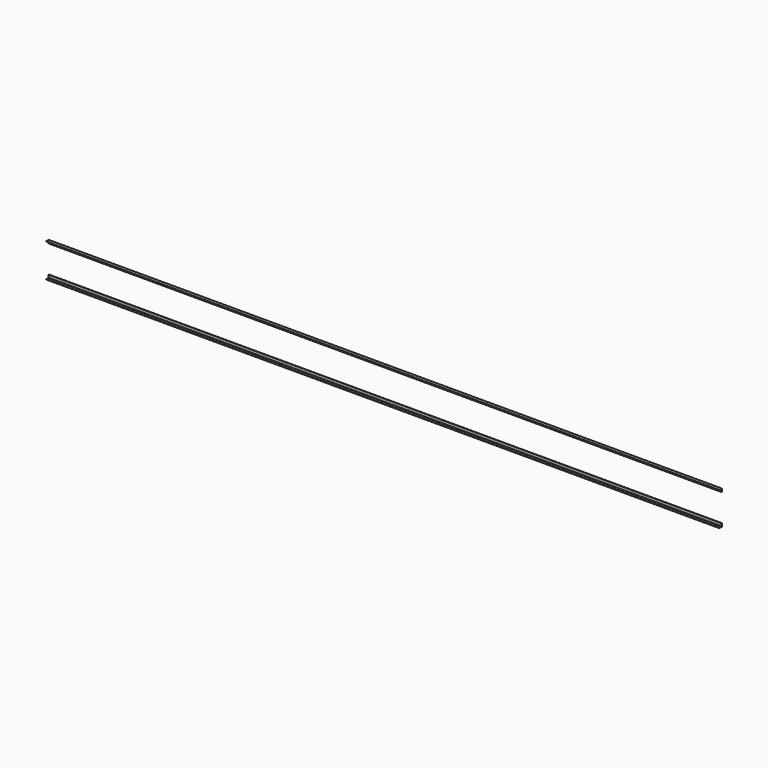
from build123d import *

# Parameters (mm, degrees)
EXTRUDE017_DEPTH = 19000
EXTRUDE018_DEPTH = 19000


with BuildPart() as extrude017:
    # AngleSteel004 → Extrude017 (new body)
    with BuildSketch(Plane(origin=(0, 53.415282, 39.015282), x_dir=(0, 1, 0), z_dir=(-1, 0, 0))):
        with BuildLine():
            Line((-24.615282, 24.615282), (-24.615282, -65.384718))
            Line((-24.615282, -65.384718), (-22.615282, -65.384718))
            ThreePointArc((-22.615282, -65.384718), (-19.079748, -63.920252), (-17.615282, -60.384718))
            Line((-17.615282, -60.384718), (-17.615282, 7.615282))
            ThreePointArc((-17.615282, 7.615282), (-14.68635, 14.68635), (-7.615282, 17.615282))
            Line((-7.615282, 17.615282), (60.384718, 17.615282))
            ThreePointArc((60.384718, 17.615282), (63.920252, 19.079748), (65.384718, 22.615282))
            Line((65.384718, 22.615282), (65.384718, 24.615282))
            Line((65.384718, 24.615282), (-24.615282, 24.615282))
        make_face()
    extrude(amount=-EXTRUDE017_DEPTH)


with BuildPart() as fusion001:
    # Mirror → Extrude018 (new body)
    with BuildSketch(Plane(origin=(0, 53.415282, 939.777402), x_dir=(0, -1, 0), z_dir=(1, 0, 0))):
        with BuildLine():
            Line((24.615282, -24.615282), (24.615282, 65.384718))
            Line((24.615282, 65.384718), (22.615282, 65.384718))
            ThreePointArc((22.615282, 65.384718), (19.079748, 63.920252), (17.615282, 60.384718))
            Line((17.615282, 60.384718), (17.615282, -7.615282))
            ThreePointArc((17.615282, -7.615282), (14.68635, -14.68635), (7.615282, -17.615282))
            Line((7.615282, -17.615282), (-60.384718, -17.615282))
            ThreePointArc((-60.384718, -17.615282), (-63.920252, -19.079748), (-65.384718, -22.615282))
            Line((-65.384718, -22.615282), (-65.384718, -24.615282))
            Line((-65.384718, -24.615282), (24.615282, -24.615282))
        make_face()
    extrude(amount=EXTRUDE018_DEPTH)

    # Fusion001: union Extrude017
    add(extrude017.part)


with BuildPart() as fusion_mirrored:
    # Mirror001: instance of Fusion001
    add(fusion001.part.mirror(Plane(origin=(0, 28.796342, 514.396342), x_dir=(-1, 0, 0), z_dir=(0, -1, 0))))


with BuildPart() as fusion_mirrored_1:
    # Mirror001 placement: moved
    add(fusion_mirrored.part.moved(Location((0, -6, 0))))


solid = fusion_mirrored_1.part
